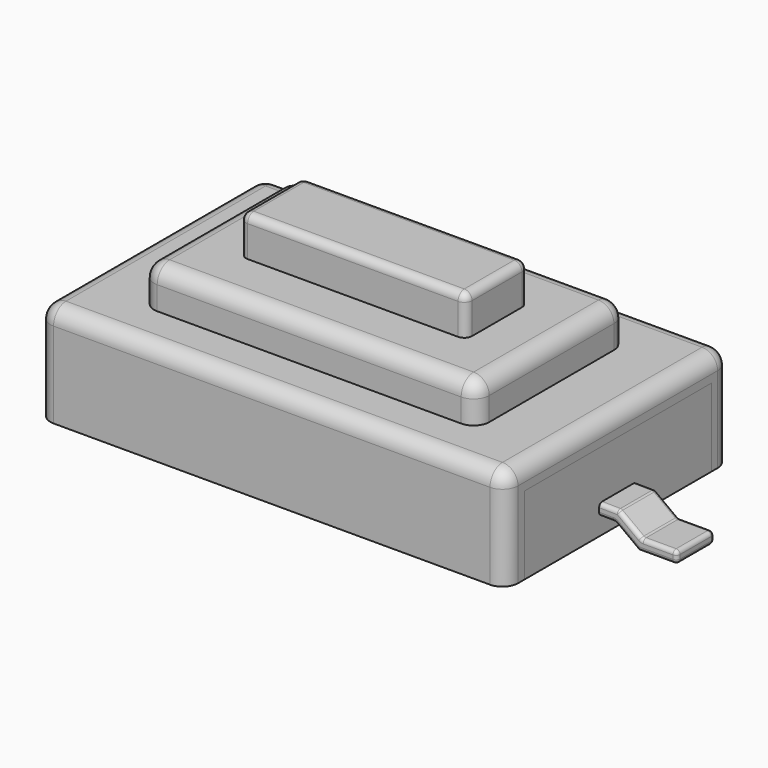
from build123d import *

# Parameters (mm, degrees)
F0_W     = 6
F0_H     = 3
F1_DEPTH = 1
F3_DEPTH = 6
F5_DEPTH = 0.5
F6_R     = 0.2
F7_W     = 2.9
F7_H     = 1
F8_DEPTH = 0.5
F9_R     = 0.2
F10_W    = 0.6
F10_H    = 0.15
F13_W    = 0.6
F13_H    = 0.15
F15_R    = 0.2
F16_R    = 0.1
F17_R    = 0.05
F18_R    = 0.05


with BuildPart() as f1:
    # F0 (on Top) → F1 (new body)
    with BuildSketch(Plane.XY):
        Rectangle(F0_W, F0_H)
    extrude(amount=F1_DEPTH)


with BuildPart() as f3:
    # F2 (on face) → F3 (new body)
    with BuildSketch(Plane(origin=(-3, 0, 0), x_dir=(0, -1, 0), z_dir=(-1, 0, 0))):
        Polygon((-1.8, 0), (-1.5, 0), (-1.5, 1), (1.5, 1), (1.5, 0), (1.8, 0), (1.8, 1.3), (-1.8, 1.3), align=None)
    extrude(amount=-F3_DEPTH)

    # F4 (on face) → F5 (join)
    with BuildSketch(Plane.XY.offset(1.3)):
        with BuildLine():
            Line((-1.95, -1.2), (1.95, -1.2))
            ThreePointArc((1.95, -1.2), (2.0914213562, -1.1414213562), (2.15, -1))
            Line((2.15, -1), (2.15, 1))
            ThreePointArc((2.15, 1), (2.0914213562, 1.1414213562), (1.95, 1.2))
            Line((1.95, 1.2), (-1.95, 1.2))
            ThreePointArc((-1.95, 1.2), (-2.0914213562, 1.1414213562), (-2.15, 1))
            Line((-2.15, 1), (-2.15, -1))
            ThreePointArc((-2.15, -1), (-2.0914213562, -1.1414213562), (-1.95, -1.2))
        make_face()
    extrude(amount=F5_DEPTH)

    # F6
    f6_edges = [f3.edges().sort_by_distance(p)[0] for p in [
        (0, -1.2, 1.8),
        (2.091421, -1.141421, 1.8),
        (2.15, 0, 1.8),
        (2.091421, 1.141421, 1.8),
        (0, 1.2, 1.8),
        (-2.091421, 1.141421, 1.8),
        (-2.15, 0, 1.8),
        (-2.091421, -1.141421, 1.8),
    ]]
    fillet(f6_edges, radius=F6_R)

    # F9
    f9_edges = [f3.edges().sort_by_distance(p)[0] for p in [
        (0, -1.8, 1.3),
        (0, 1.8, 1.3),
    ]]
    fillet(f9_edges, radius=F9_R)

    # F15
    f15_edges = [f3.edges().sort_by_distance(p)[0] for p in [
        (-3, 1.8, 0.55),
        (-3, 1.741421, 1.241421),
        (-3, 0, 1.3),
        (-3, -1.8, 0.55),
        (-3, -1.741421, 1.241421),
        (3, 0, 1.3),
    ]]
    fillet(f15_edges, radius=F15_R)


with BuildPart() as f8:
    # F7 (on face) → F8 (new body)
    with BuildSketch(Plane.XY.offset(1.8)):
        Rectangle(F7_W, F7_H)
    extrude(amount=F8_DEPTH)

    # F16
    f16_edges = [f8.edges().sort_by_distance(p)[0] for p in [
        (0, -0.5, 2.3),
        (0, 0.5, 2.3),
        (-1.45, 0, 2.3),
        (1.45, 0, 2.3),
        (-1.45, 0.5, 2.05),
        (1.45, 0.5, 2.05),
        (-1.45, -0.5, 2.05),
        (1.45, -0.5, 2.05),
    ]]
    fillet(f16_edges, radius=F16_R)


with BuildPart() as f12:
    # F12: sweep along a path in F11
    with BuildLine(Plane.XZ.offset(1.8)) as f12_path:
        Line((4, 0), (3.5, 0))
        Line((3.5, 0), (3.1999840813, 0.2224766605))
        Line((3.1999840813, 0.2224766605), (3, 0.225))
    # F10 (on face) → F12 (sweep)
    with BuildSketch(Plane.YZ.offset(3)):
        with Locations((0, 0.3)):
            Rectangle(F10_W, F10_H)
    sweep(path=f12_path.line, transition=Transition.RIGHT)

    # F18
    f18_edges = [f12.edges().sort_by_distance(p)[0] for p in [
        (3.125185, -0.3, 0.37342),
        (3.399957, -0.3, 0.260914),
        (3.773826, -0.3, 0.149988),
        (3.998107, 0, 0.149988),
        (3.250369, 0, 0.371841),
        (3.549544, 0, 0.149988),
        (3.125185, 0.3, 0.37342),
        (3.399957, 0.3, 0.260914),
        (3.773826, 0.3, 0.149988),
        (3.999054, 0.3, 0.074994),
        (3.75, 0.3, 0),
        (3.349992, 0.3, 0.111238),
        (3.099992, 0.3, 0.223738),
        (3.999054, -0.3, 0.074994),
        (3.099992, -0.3, 0.223738),
        (3.349992, -0.3, 0.111238),
        (3.75, -0.3, 0),
        (4, 0, 0),
        (3.199984, 0, 0.222477),
        (3.5, 0, 0),
    ]]
    fillet(f18_edges, radius=F18_R)


with BuildPart() as f14:
    # F14: sweep along a path in F11
    with BuildLine(Plane.XZ.offset(1.8)) as f14_path:
        Line((-3, 0.25), (-3.2, 0.25))
        Line((-3.2, 0.25), (-3.5, 0))
        Line((-3.5, 0), (-4, 0))
    # F13 (on face) → F14 (sweep)
    with BuildSketch(Plane(origin=(-3, 0, 0), x_dir=(0, -1, 0), z_dir=(-1, 0, 0))):
        with Locations((0, 0.3)):
            Rectangle(F13_W, F13_H)
    sweep(path=f14_path.line, transition=Transition.RIGHT)

    # F17
    f17_edges = [f14.edges().sort_by_distance(p)[0] for p in [
        (-3.395256, 0.3, 0.25),
        (-3.772628, 0.3, 0.125),
        (-3.122628, 0.3, 0.375),
        (-3.772628, -0.3, 0.125),
        (-3.395256, -0.3, 0.25),
        (-3.122628, -0.3, 0.375),
        (-3.245256, 0, 0.375),
        (-3.545256, 0, 0.125),
        (-4, 0, 0.125),
        (-3.190949, 0, 0.225),
        (-3.490949, 0, -0.025),
        (-3.095474, -0.3, 0.225),
        (-3.340949, -0.3, 0.1),
        (-3.340949, 0.3, 0.1),
        (-4, 0, -0.025),
        (-3.745474, 0.3, -0.025),
        (-3.745474, -0.3, -0.025),
        (-4, -0.3, 0.05),
        (-4, 0.3, 0.05),
        (-3.095474, 0.3, 0.225),
    ]]
    fillet(f17_edges, radius=F17_R)


solid = Compound([f1.part, f3.part, f8.part, f12.part, f14.part])
